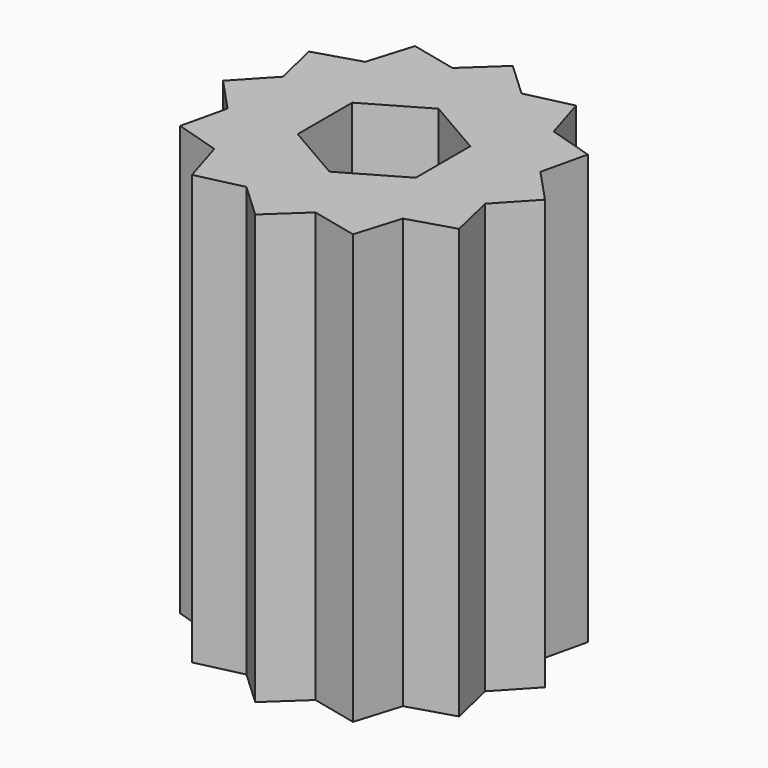
from build123d import *

# Parameters (mm, degrees)
PAD_DEPTH = 20


with BuildPart() as part:
    # Sketch → Pad (new body)
    with BuildSketch(Plane.XY):
        Polygon((-3.75, 6.495191), (-1.607695, 6), (0, 7.5), (1.607695, 6), (3.75, 6.495191), (4.392305, 4.392305), (6.495191, 3.75), (6, 1.607695), (7.5, 0), (6, -1.607695), (6.495191, -3.75), (4.392305, -4.392305), (3.75, -6.495191), (1.607695, -6), (0, -7.5), (-1.607695, -6), (-3.75, -6.495191), (-4.392305, -4.392305), (-6.495191, -3.75), (-6, -1.607695), (-7.5, 0), (-6, 1.607695), (-6.495191, 3.75), (-4.392305, 4.392305), align=None)
        Polygon((2.75, 1.587713), (0, 3.175426), (-2.75, 1.587713), (-2.75, -1.587713), (0, -3.175426), (2.75, -1.587713), align=None, mode=Mode.SUBTRACT)
    extrude(amount=PAD_DEPTH)


solid = part.part
